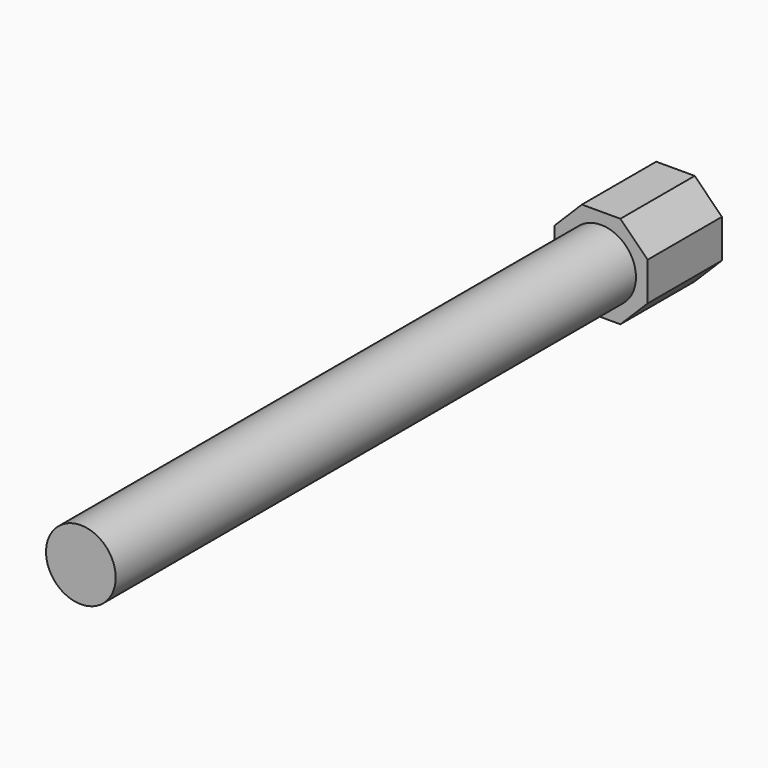
from build123d import *

# Parameters (mm, degrees)
F0_R     = 4.7625
F1_DEPTH = 101.6
F3_DEPTH = 12.7


with BuildPart() as f1:
    # F0 (on Front) → F1 (new body)
    with BuildSketch(Plane.XZ):
        Circle(F0_R)
    extrude(amount=F1_DEPTH)

    # F2 (on Front) → F3 (join)
    with BuildSketch(Plane.XZ):
        Polygon((-2.630256, -6.35), (2.630256, -6.35), (6.35, -2.630256), (6.35, 2.630256), (2.630256, 6.35), (-2.630256, 6.35), (-6.35, 2.630256), (-6.35, -2.630256), align=None)
    extrude(amount=F3_DEPTH)


solid = f1.part
